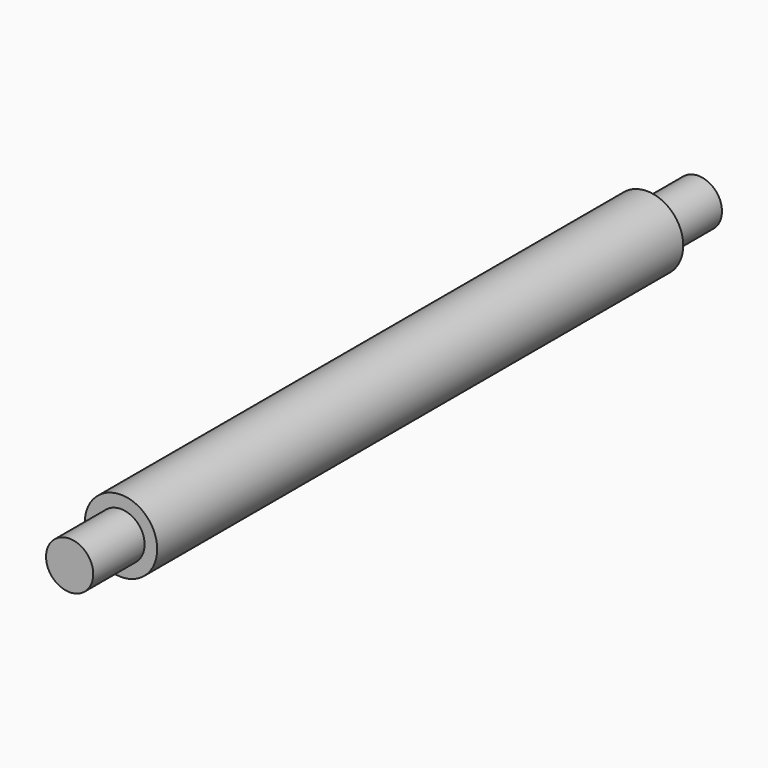
from build123d import *

# Parameters (mm, degrees)
F0_R          = 3.95
F1_DEPTH      = 35.86
F1_DEPTH_BACK = 35.86
F2_R          = 2.575
F3_DEPTH      = 7
F4_R          = 2.575
F5_DEPTH      = 7


with BuildPart() as f1:
    # F0 (on Front) → F1 (new body, two sides)
    with BuildSketch(Plane.XZ) as f1_sk:
        Circle(F0_R)
    extrude(amount=F1_DEPTH)
    extrude(f1_sk.sketch, amount=-F1_DEPTH_BACK)

    # F2 (on face) → F3 (join)
    with BuildSketch(Plane(origin=(0, 35.86, 0), x_dir=(-1, 0, 0), z_dir=(0, 1, 0))):
        Circle(F2_R)
    extrude(amount=F3_DEPTH)

    # F4 (on face) → F5 (join)
    with BuildSketch(Plane.XZ.offset(35.86)):
        Circle(F4_R)
    extrude(amount=F5_DEPTH)


solid = f1.part
